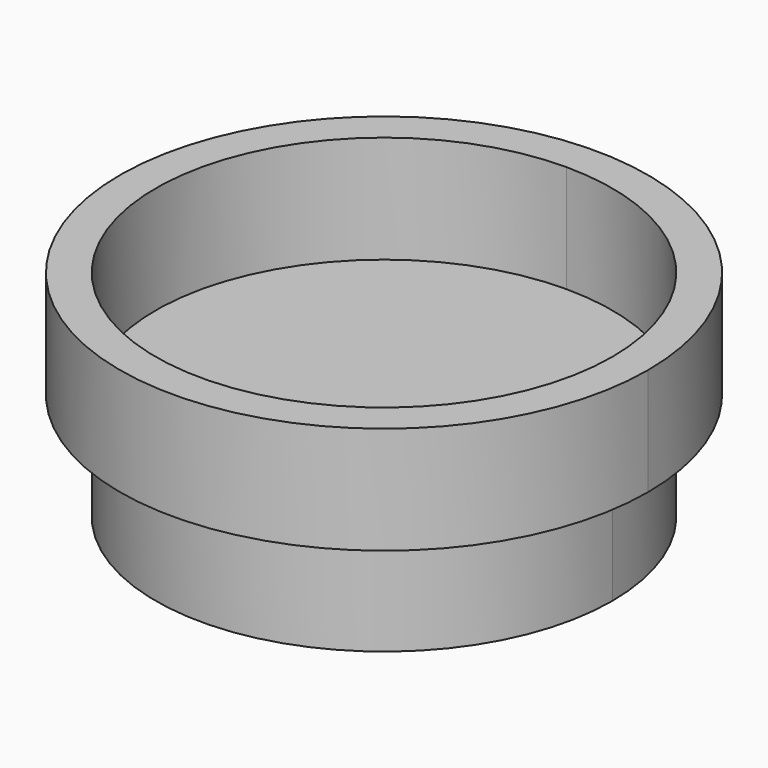
from build123d import *

# Parameters (mm, degrees)
F0_R          = 62.42416
F1_DEPTH      = 25.4
F5_DEPTH      = 25.4
F5_DEPTH_BACK = 25.4
F6_DEPTH      = 25.4


with BuildPart() as f1:
    # F0 (on Top) → F1 (new body)
    with BuildSketch(Plane.XY):
        Circle(F0_R)
    extrude(amount=F1_DEPTH)

    # F4 (on face) → F5 (cut, two sides)
    with BuildSketch(Plane.XY.offset(25.4)) as f5_sk:
        with BuildLine():
            ThreePointArc((62.42416, 0), (45.424979, 42.817602), (3.685779, 62.315253))
            ThreePointArc((3.685779, 62.315253), (-45.424979, -42.817602), (62.42416, 0))
        make_face()
        with BuildLine():
            ThreePointArc((53.963586, 0), (-38.158018, -38.158018), (0, 53.963586))
            ThreePointArc((0, 53.963586), (38.158018, 38.158018), (53.963586, 0))
        make_face(mode=Mode.SUBTRACT)
    extrude(amount=-F5_DEPTH, mode=Mode.SUBTRACT)
    extrude(f5_sk.sketch, amount=-F5_DEPTH_BACK, mode=Mode.SUBTRACT)


with BuildPart() as f6:
    # F3 (on face) → F6 (new body)
    with BuildSketch(Plane.XY.offset(25.4)):
        with BuildLine():
            ThreePointArc((3.685779, 62.315253), (-45.424979, -42.817602), (62.42416, 0))
            ThreePointArc((62.42416, 0), (45.424979, 42.817602), (3.685779, 62.315253))
        make_face()
        with BuildLine():
            ThreePointArc((53.963586, 0), (-38.158018, -38.158018), (0, 53.963586))
            ThreePointArc((0, 53.963586), (38.158018, 38.158018), (53.963586, 0))
        make_face(mode=Mode.SUBTRACT)
    extrude(amount=F6_DEPTH)


solid = Compound([f1.part, f6.part])
